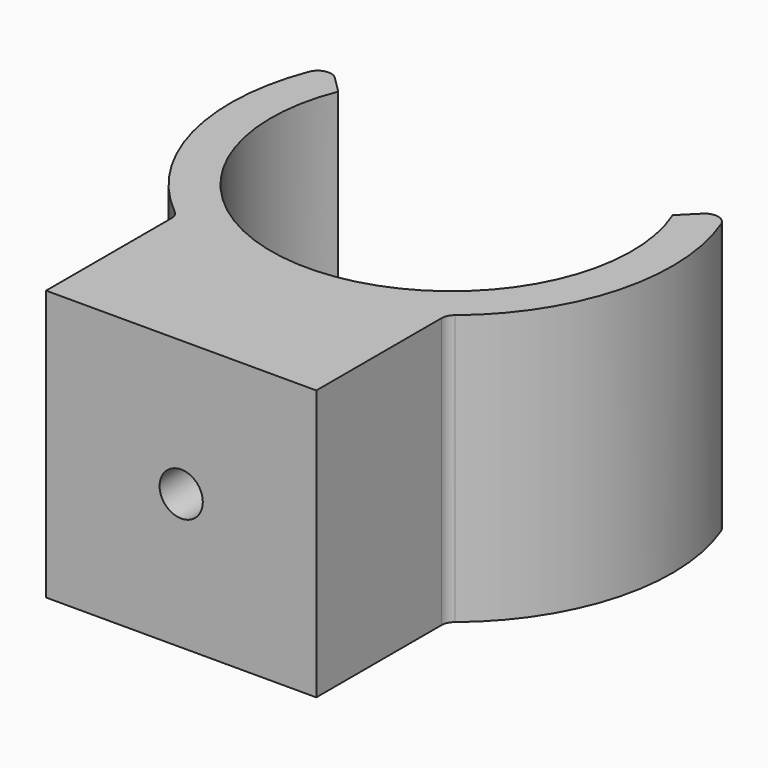
from build123d import *

# Parameters (mm, degrees)
CYLINDER_R     = 3
CYLINDER_DEPTH = 10
PAD_DEPTH      = 20
PAD001_DEPTH   = 20
SKETCH002_R    = 1.6
POCKET_DEPTH   = 32.268643
FILLET_R       = 1
FILLET001_R    = 1


with BuildPart() as cylinder:
    # Cylinder → Cylinder (new body)
    with BuildSketch(Plane(origin=(0, -18, 10), x_dir=(0, 0, 1), z_dir=(0, 1, 0))):
        Circle(CYLINDER_R)
    extrude(amount=CYLINDER_DEPTH)


with BuildPart() as fillet001:
    # Sketch → Pad (new body)
    with BuildSketch(Plane.XY):
        with BuildLine():
            ThreePointArc((-12.378308, 5), (0, -13.35), (12.378308, 5))
            Line((14.645951, 7.267643), (12.378308, 5))
            ThreePointArc((-14.645951, 7.267643), (0, -16.35), (14.645951, 7.267643))
            Line((-14.645951, 7.267643), (-12.378308, 5))
        make_face()
    extrude(amount=PAD_DEPTH)

    # Sketch001 → Pad001 (new body)
    with BuildSketch(Plane.XY.offset(20)):
        with BuildLine():
            ThreePointArc((-10, -10), (0, -14.142136), (10, -10))
            Line((10, -10), (10, -25))
            Line((10, -25), (-10, -25))
            Line((-10, -25), (-10, -10))
        make_face()
    extrude(amount=-PAD001_DEPTH)

    # Sketch002 → Pocket (cut, through all)
    with BuildSketch(Plane.XZ.offset(25)):
        with Locations((0, 10)):
            Circle(SKETCH002_R)
    extrude(amount=-POCKET_DEPTH, mode=Mode.SUBTRACT)

    # Cut: cut Cylinder
    add(cylinder.part, mode=Mode.SUBTRACT)

    # Fillet
    fillet_edges = [fillet001.edges().sort_by_distance(p)[0] for p in [
        (-14.645951, 7.267643, 10),
        (14.645951, 7.267643, 10),
    ]]
    fillet(fillet_edges, radius=FILLET_R)

    # Fillet001
    fillet001_edges = [fillet001.edges().sort_by_distance(p)[0] for p in [
        (-10, -12.93532, 10),
        (10, -12.93532, 10),
    ]]
    fillet(fillet001_edges, radius=FILLET001_R)


solid = fillet001.part
